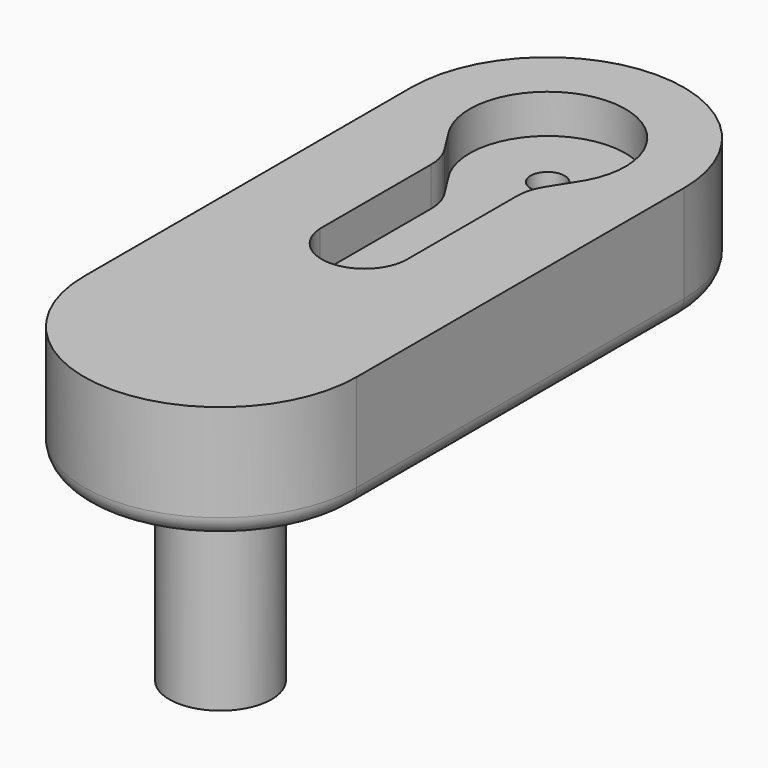
from build123d import *

# Parameters (mm, degrees)
PAD_DEPTH       = 12
POCKET_DEPTH    = 4
SKETCH002_R     = 5.25
PAD001_DEPTH    = 20
SKETCH003_R     = 1.75
POCKET001_DEPTH = 28.001
FILLET_R        = 3
FILLET001_R     = 2
FILLET002_R     = 5


with BuildPart() as part:
    # Sketch001 → Pad (new body)
    with BuildSketch(Plane.XY):
        with BuildLine():
            ThreePointArc((14, 0), (0, 14), (-14, 0))
            Line((-14, 0), (-14, -42))
            ThreePointArc((-14, -42), (0, -56), (14, -42))
            Line((14, -42), (14, 0))
        make_face()
    extrude(amount=PAD_DEPTH)

    # Sketch (on Face6 of Pad) → Pocket (cut)
    with BuildSketch(Plane.XY.offset(12)):
        with BuildLine():
            ThreePointArc((6.614378, -4.5), (0, 8), (-6.614378, -4.5))
            Line((-6.614378, -4.5), (-4.395452, -8))
            Line((-4.395452, -8), (-4.395452, -23.7))
            ThreePointArc((-4.395452, -23.7), (0, -27.9), (4.395452, -23.7))
            Line((4.395452, -8), (4.395452, -23.7))
            Line((6.614378, -4.5), (4.395452, -8))
        make_face()
    extrude(amount=-POCKET_DEPTH, mode=Mode.SUBTRACT)

    # Sketch002 (on Face4 of Pocket) → Pad001 (join)
    with BuildSketch(Plane(origin=(0, 0, 0), x_dir=(1, 0, 0), z_dir=(0, 0, -1))):
        with Locations((0, 42)):
            Circle(SKETCH002_R)
    extrude(amount=PAD001_DEPTH)

    # Sketch003 (on Face15 of Pad001) → Pocket001 (cut, through all)
    with BuildSketch(Plane.XY.offset(8)):
        Circle(SKETCH003_R)
        with Locations((0, -23.5)):
            Circle(SKETCH003_R)
    extrude(amount=-POCKET001_DEPTH, mode=Mode.SUBTRACT)

    # Fillet
    fillet_edges = [part.edges().sort_by_distance(p)[0] for p in [
        (-5.25, -42, 0),
    ]]
    fillet(fillet_edges, radius=FILLET_R)

    # Fillet001
    fillet001_edges = [part.edges().sort_by_distance(p)[0] for p in [
        (-14, -21, 0),
        (0, 14, 0),
        (14, -21, 0),
        (0, -56, 0),
    ]]
    fillet(fillet001_edges, radius=FILLET001_R)

    # Fillet002
    fillet002_edges = [part.edges().sort_by_distance(p)[0] for p in [
        (-4.395452, -8, 10),
        (4.395452, -8, 10),
    ]]
    fillet(fillet002_edges, radius=FILLET002_R)


solid = part.part
